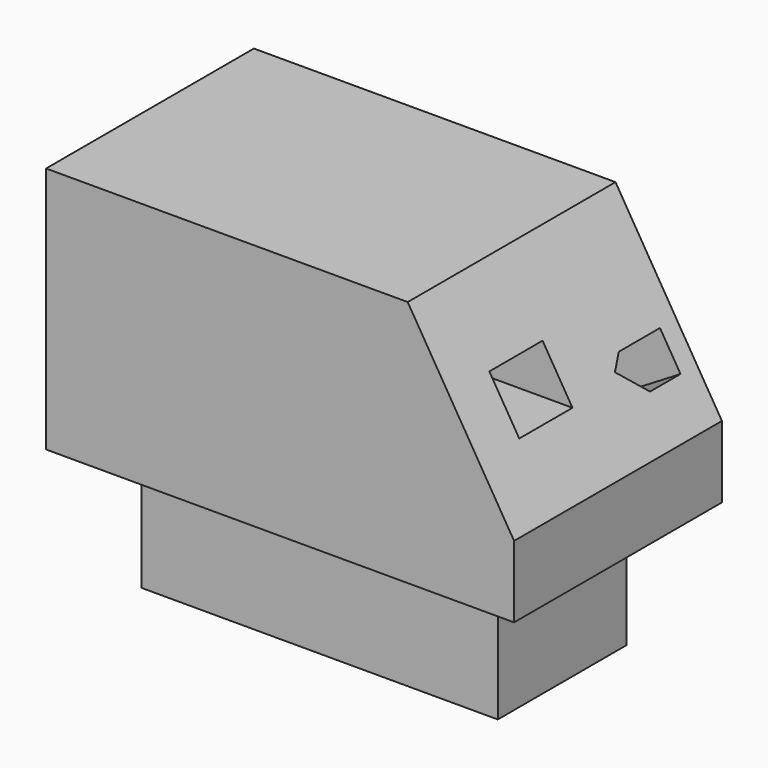
from build123d import *

# Parameters (mm, degrees)
F0_W      = 96.10016644
F0_H      = 53.3400028944
F1_DEPTH  = 50.8
F2_W      = 73.1771886349
F2_H      = 33.0619849265
F3_DEPTH  = 25.4
F4_W      = 13.6656195391
F4_H      = 10.1390071213
F5_DEPTH  = 48.05108322
F7_DEPTH  = 53.3410028944
F9_DEPTH  = 43.18
F11_DEPTH = 25.4


with BuildPart() as f1:
    # F0 (on Top) → F1 (new body)
    with BuildSketch(Plane.XY):
        Rectangle(F0_W, F0_H)
    extrude(amount=F1_DEPTH)

    # F2 (on Top) → F3 (join)
    with BuildSketch(Plane.XY):
        Rectangle(F2_W, F2_H)
    extrude(amount=-F3_DEPTH)

    # F4 (on Right) → F5 (cut, through all)
    with BuildSketch(Plane.YZ):
        with Locations((-9.4777684426, 31.7395050079)):
            Rectangle(F4_W, F4_H)
    extrude(amount=F5_DEPTH, mode=Mode.SUBTRACT)

    # F6 (on face) → F7 (cut, through all)
    with BuildSketch(Plane(origin=(0, 26.6700014472, 0), x_dir=(-1, 0, 0), z_dir=(0, 1, 0))):
        Polygon((-48.05008322, 50.8), (-48.05008322, 14.7308725864), (-26.2037906796, 50.8), align=None)
    extrude(amount=-F7_DEPTH, mode=Mode.SUBTRACT)

    # F8 (on face) → F9 (cut)
    with BuildSketch(Plane(origin=(41.6815353707, 0, 25.2456069924), x_dir=(0, 1, 0), z_dir=(0.8553426921, 0, 0.5180626207))):
        Polygon((11.9023136795, 5.7883295231), (9.2573547736, 3.2114295755), (14.6670065658, -2.3410974829), (22.4821474403, -2.3410974829), (22.4821474403, 5.7883295231), align=None)
    extrude(amount=-F9_DEPTH, mode=Mode.SUBTRACT)

    # F10 (on face) → F11 (cut)
    with BuildSketch(Plane(origin=(-2.9987171623, 0, 4.9510053573), x_dir=(0.8553426921, 0, 0.5180626207), z_dir=(0.5180626207, 0, -0.8553426921))):
        Polygon((29.4420253485, -19.3029493093), (28.2331872731, -14.3353175372), (10.6222741306, -14.3353175372), (10.6222741306, -19.3029493093), align=None)
    extrude(amount=-F11_DEPTH, mode=Mode.SUBTRACT)


solid = f1.part
